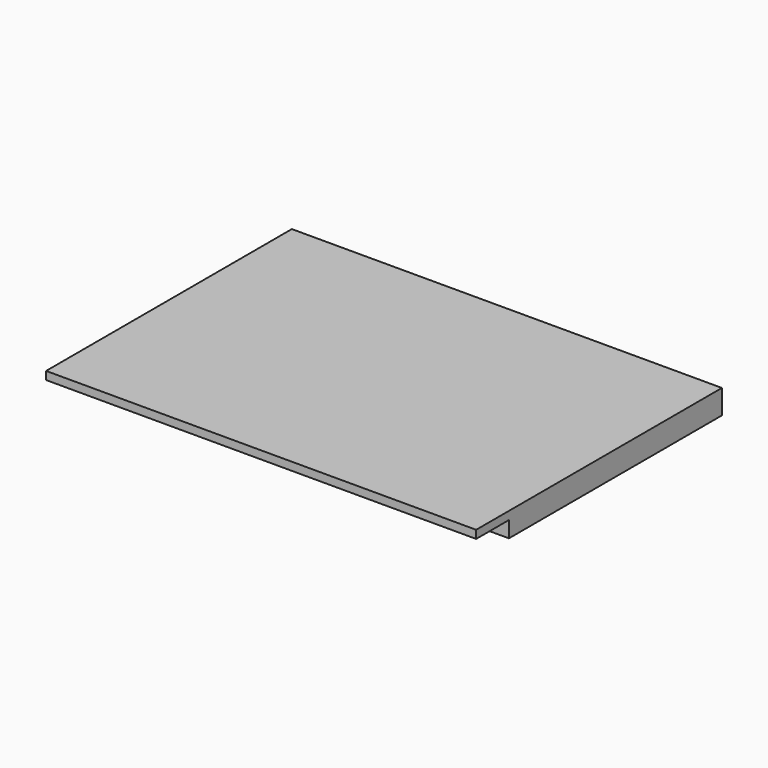
from build123d import *

# Parameters (mm, degrees)
F0_W     = 127
F0_H     = 79.375
F1_DEPTH = 7.5
F0_W_2   = 3.175
F0_H_2   = 12.7
F2_DEPTH = 2.5


with BuildPart() as f1:
    # F0 (on Top) → F1 (new body)
    with BuildSketch(Plane.XY):
        Polygon((85.0653162807, 76.807467067), (-48.2846837193, 76.807467067), (-48.2846837193, -5.742532933), (-45.1096837193, -5.742532933), (-45.1096837193, 73.632467067), (81.8903162807, 73.632467067), (81.8903162807, -5.742532933), (85.0653162807, -5.742532933), align=None)
        with Locations((18.3903162807, 33.944967067)):
            Rectangle(F0_W, F0_H)
    extrude(amount=-F1_DEPTH)

    # F0 (on Top) → F2 (join)
    with BuildSketch(Plane.XY):
        with Locations((-46.6971837193, -12.092532933)):
            Rectangle(F0_W_2, F0_H_2)
        with Locations((83.4778162807, -12.092532933)):
            Rectangle(F0_W_2, F0_H_2)
        with Locations((18.3903162807, -12.092532933)):
            Rectangle(F0_W, F0_H_2)
    extrude(amount=-F2_DEPTH)


solid = f1.part
